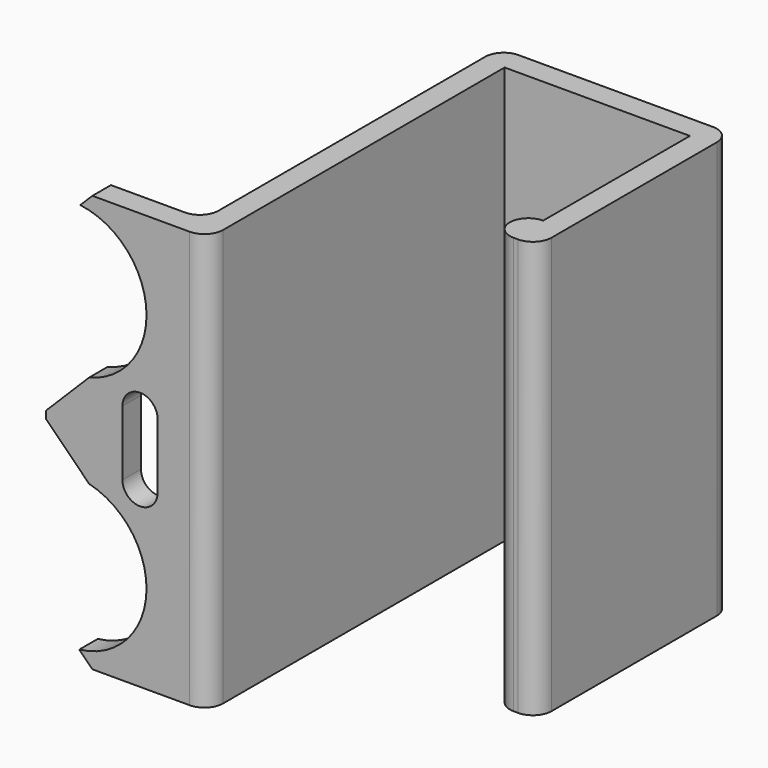
from build123d import *

# Parameters (mm, degrees)
PAD_DEPTH       = 45
FILLET_R        = 2
CHAMFER_SIZE    = 5
SKETCH001_R     = 1.8
POCKET_DEPTH    = 5
POCKET001_DEPTH = 5


with BuildPart() as part:
    # Sketch → Pad (new body)
    with BuildSketch(Plane.XY):
        with BuildLine():
            Line((11.154947, 7.919356), (13.654947, 7.919356))
            Line((13.654947, 7.919356), (13.654947, 34.219356))
            Line((13.654947, 34.219356), (-11.345053, 34.219356))
            Line((-11.345053, 34.219356), (-11.345053, -5.780644))
            Line((-11.345053, -5.780644), (-26.345053, -5.780644))
            Line((-26.345053, -5.780644), (-26.345053, -8.280644))
            Line((-26.345053, -8.280644), (-8.845053, -8.280644))
            Line((-8.845053, -8.280644), (-8.845053, 31.719356))
            Line((-8.845053, 31.719356), (11.154947, 31.719356))
            Line((11.154947, 31.719356), (11.154947, 11.919356))
            ThreePointArc((11.154947, 11.919356), (9.154947, 9.919356), (11.154947, 7.919356))
        make_face()
    extrude(amount=PAD_DEPTH)

    # Fillet
    fillet_edges = [part.edges().sort_by_distance(p)[0] for p in [
        (-8.845053, -8.280644, 22.5),
        (-11.345053, -5.780644, 22.5),
        (-11.345053, 34.219356, 22.5),
        (13.654947, 34.219356, 22.5),
        (13.654947, 7.919356, 22.5),
    ]]
    fillet(fillet_edges, radius=FILLET_R)

    # Chamfer
    chamfer_edges = [part.edges().sort_by_distance(p)[0] for p in [
        (-26.345053, -7.030644, 0),
        (-26.345053, -7.030644, 45),
    ]]
    chamfer(chamfer_edges, length=CHAMFER_SIZE)

    # Sketch001 (on Face2 of Chamfer) → Pocket (cut)
    with BuildSketch(Plane.XZ.offset(8.280644)):
        with Locations((-20.345053, 4.25)):
            Circle(SKETCH001_R)
        with Locations((-20.345053, 40.75)):
            Circle(SKETCH001_R)
    extrude(amount=-POCKET_DEPTH, mode=Mode.SUBTRACT)

    # Sketch002 (on Face2 of Pocket) → Pocket001 (cut)
    with BuildSketch(Plane.XZ.offset(8.280644)):
        with BuildLine():
            ThreePointArc((-23.702854, 1.362278), (-15.565, 8.554641), (-21.702854, 17.514636))
            Line((-21.702854, 17.514636), (-26.750495, 22.562278))
            Line((-26.750495, 22.562278), (-21.702854, 27.60992))
            ThreePointArc((-21.702854, 27.60992), (-15.565, 36.569915), (-23.702854, 43.762278))
            Line((-23.702854, 43.762278), (-32.41938, 43.762278))
            Line((-32.41938, 43.762278), (-32.41938, 1.362278))
            Line((-32.41938, 1.362278), (-23.702854, 1.362278))
        make_face()
        with BuildLine():
            ThreePointArc((-14.302854, 26.062278), (-16.202854, 27.962278), (-18.102854, 26.062278))
            Line((-18.102854, 26.062278), (-18.102854, 19.062278))
            ThreePointArc((-18.102854, 19.062278), (-16.202854, 17.162278), (-14.302854, 19.062278))
            Line((-14.302854, 26.062278), (-14.302854, 19.062278))
        make_face()
    extrude(amount=-POCKET001_DEPTH, mode=Mode.SUBTRACT)


solid = part.part
